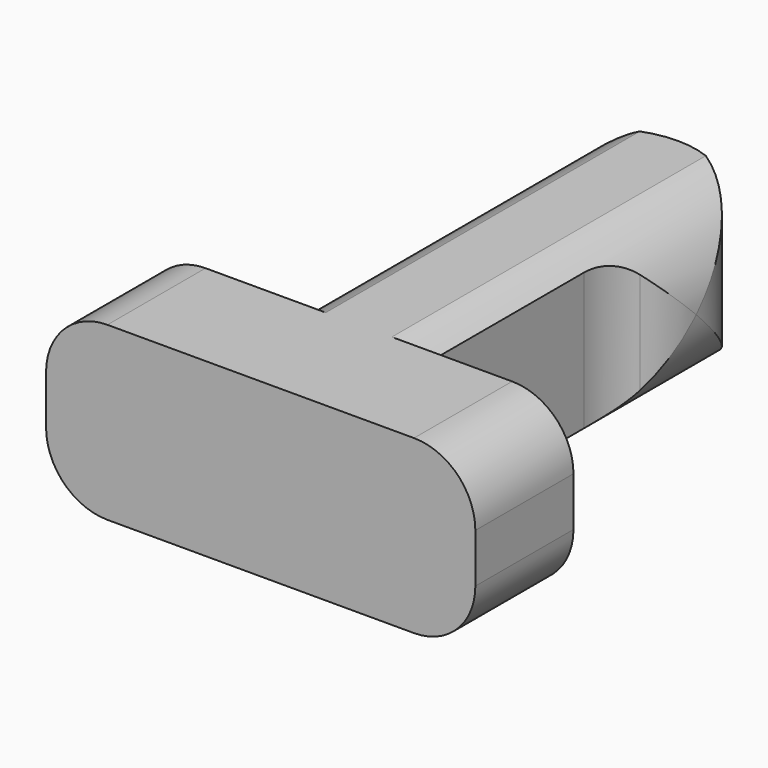
from build123d import *

# Parameters (mm, degrees)
PAD061_DEPTH      = 1.4
PAD061_DEPTH_BACK = 1.4
SKETCH083_R       = 2.5
SKETCH083_R_2     = 1.5
POCKET035_DEPTH   = 7
FILLET036_R       = 1


with BuildPart() as part:
    # Sketch082 → Pad061 (new body, two sides)
    with BuildSketch(Plane.XY) as pad061_sk:
        with BuildLine():
            ThreePointArc((1.25, 5.170844), (0, 7.5), (-1.25, 5.170844))
            ThreePointArc((-1, 4.341688), (-1.063859, 4.7747), (-1.25, 5.170844))
            Line((-1, 4.341688), (-1, 1))
            Line((-1, 1), (-3.5, 1))
            Line((-3.5, 1), (-3.5, -1))
            Line((-3.5, -1), (3.5, -1))
            Line((3.5, -1), (3.5, 1))
            Line((3.5, 1), (1, 1))
            Line((1, 1), (1, 4.341688))
            ThreePointArc((1.25, 5.170844), (1.063859, 4.7747), (1, 4.341688))
        make_face()
    extrude(amount=-PAD061_DEPTH)
    extrude(pad061_sk.sketch, amount=PAD061_DEPTH_BACK)

    # Sketch083 (on Face4 of Pad061) → Pocket035 (cut)
    with BuildSketch(Plane(origin=(0, 1, 0), x_dir=(-1, 0, 0), z_dir=(0, 1, 0))):
        Circle(SKETCH083_R)
        Circle(SKETCH083_R_2, mode=Mode.SUBTRACT)
    extrude(amount=POCKET035_DEPTH, mode=Mode.SUBTRACT)

    # Fillet036
    fillet036_edges = [part.edges().sort_by_distance(p)[0] for p in [
        (-3.5, 0, -1.4),
        (-3.5, 0, 1.4),
        (3.5, 0, 1.4),
        (3.5, 0, -1.4),
    ]]
    fillet(fillet036_edges, radius=FILLET036_R)


solid = part.part
